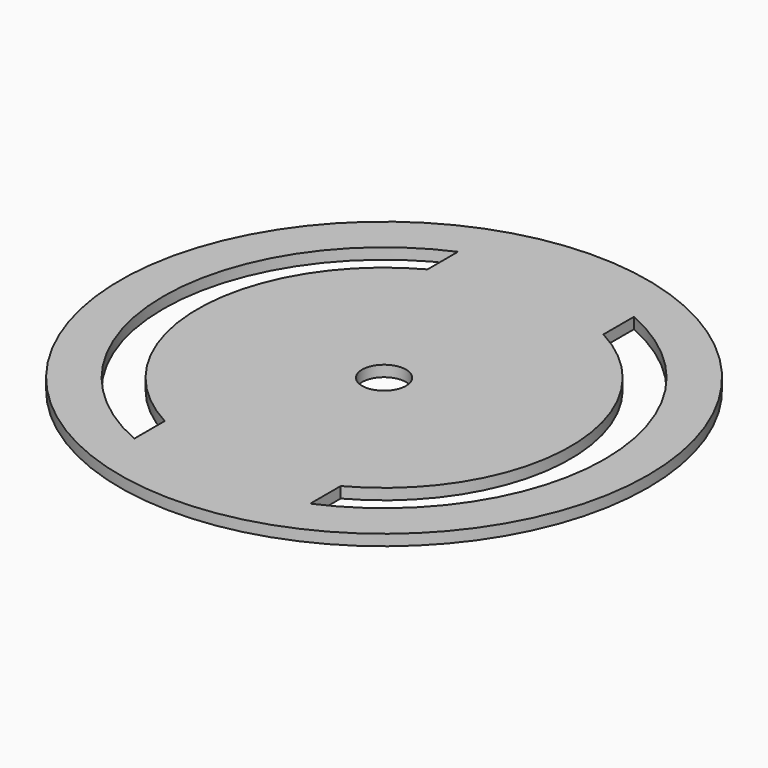
from build123d import *

# Parameters (mm, degrees)
F0_R     = 152.4
F0_R_2   = 12.7
F1_DEPTH = 6.35


with BuildPart() as f1:
    # F0 (on Top) → F1 (new body)
    with BuildSketch(Plane.XY):
        Circle(F0_R)
        with BuildLine():
            ThreePointArc((-50.8, -116.813009), (-127.381, 0), (-50.8, 116.813009))
            Line((-50.8, 116.813009), (-50.8, 94.817982))
            ThreePointArc((-50.8, 94.817982), (-107.569, 0), (-50.8, -94.817982))
            Line((-50.8, -94.817982), (-50.8, -116.813009))
        make_face(mode=Mode.SUBTRACT)
        Circle(F0_R_2, mode=Mode.SUBTRACT)
        with BuildLine():
            Line((50.8, 94.817982), (50.8, 116.813009))
            ThreePointArc((50.8, 116.813009), (127.381, 0), (50.8, -116.813009))
            Line((50.8, -116.813009), (50.8, -94.817982))
            ThreePointArc((50.8, -94.817982), (107.569, 0), (50.8, 94.817982))
        make_face(mode=Mode.SUBTRACT)
    extrude(amount=F1_DEPTH)


solid = f1.part
